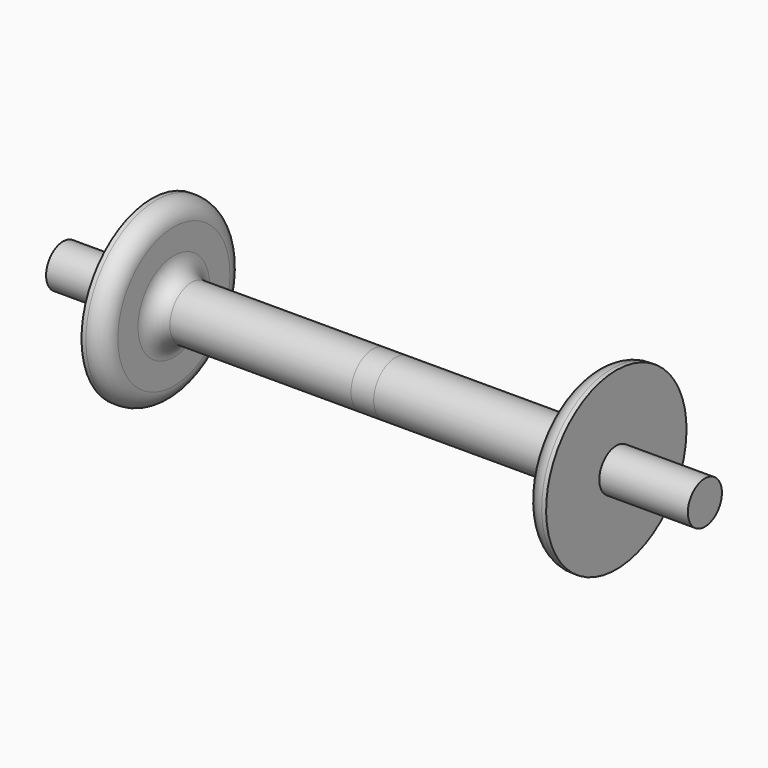
from build123d import *


with BuildPart() as f1:
    # F0 (on Front) → F1 (revolve)
    with BuildSketch(Plane.XZ):
        with BuildLine():
            Line((-5.113438, 12.217194), (-5.113438, 0))
            Line((-5.113438, 0), (144.886562, 0))
            Line((144.886562, 0), (144.886562, 9.615445))
            Line((144.886562, 9.615445), (104.886562, 9.615445))
            Line((104.886562, 9.615445), (104.886562, 39.615445))
            Line((104.886562, 39.615445), (102.886562, 39.615445))
            ThreePointArc((102.886562, 39.615445), (97.229707, 37.272299), (94.886562, 31.615445))
            Line((94.886562, 31.615445), (94.886562, 20.217194))
            ThreePointArc((94.886562, 20.217194), (92.543416, 14.56034), (86.886562, 12.217194))
            Line((86.886562, 12.217194), (-5.113438, 12.217194))
        make_face()
    revolve(axis=Axis((69.886562, 0, 0), (1, 0, 0)))

    # F2: F1 across plane


with BuildPart() as f1_1:
    add(f1.part)
    add(f1.part.mirror(Plane.YZ))


solid = f1_1.part
